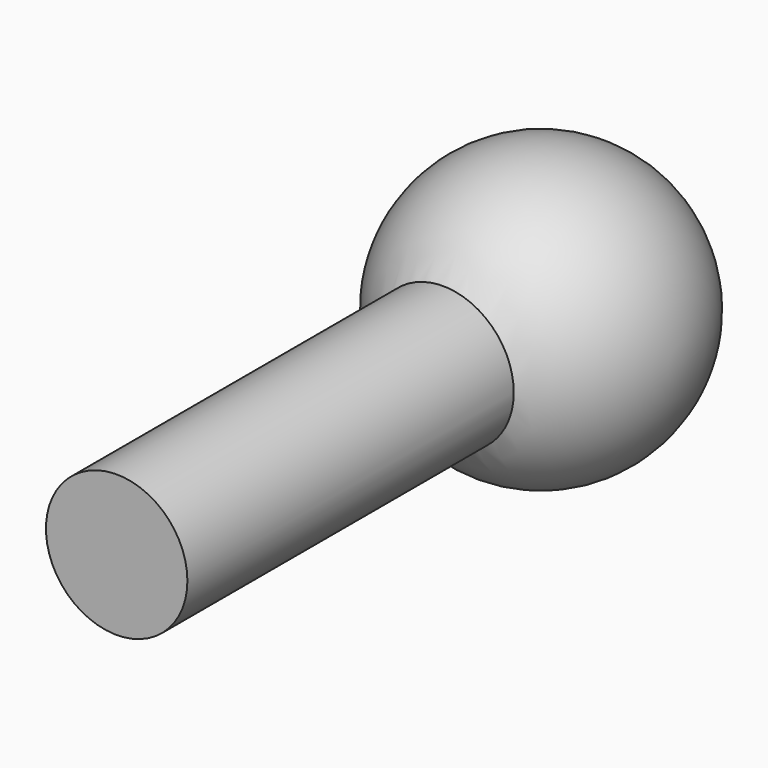
from build123d import *

# Parameters (mm, degrees)
F2_W = 4
F2_H = 30


with BuildPart() as f1:
    # F0 (on Top) → F1 (revolve)
    with BuildSketch(Plane.XY):
        with BuildLine():
            Line((-8, 0), (8, 0))
            ThreePointArc((8, 0), (0, 8), (-8, 0))
        make_face()
    revolve(axis=Axis((0, 0, 0), (1, 0, 0)))

    # F2 (on Top) → F3 (revolve)
    with BuildSketch(Plane.XY):
        with Locations((2, -15)):
            Rectangle(F2_W, F2_H)
    revolve(axis=Axis((0, -15, 0), (0, -1, 0)))


solid = f1.part
